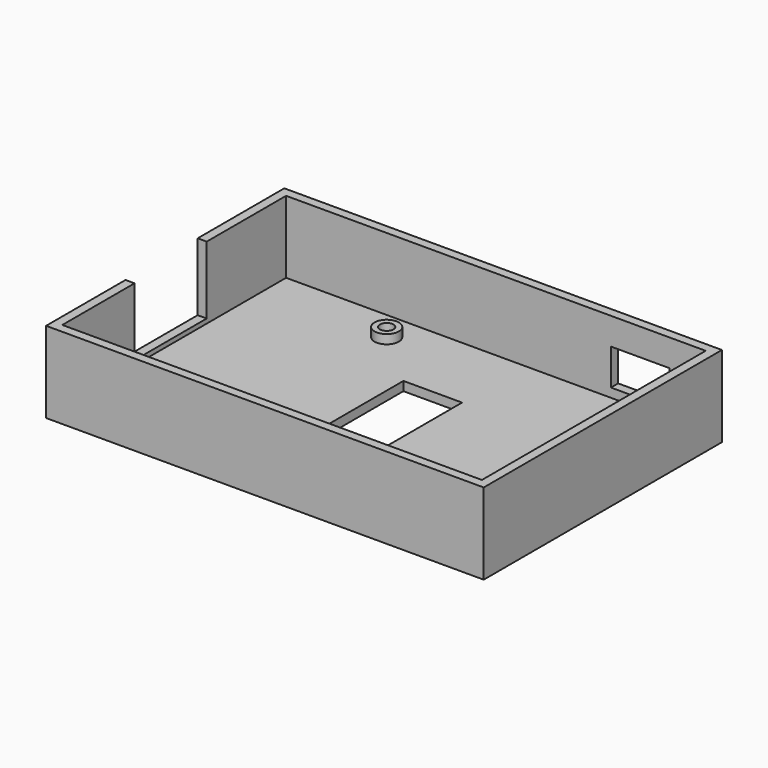
from build123d import *

# Parameters (mm, degrees)
SKETCH006_W     = 97
SKETCH006_H     = 66
SKETCH006_R     = 1.5
SKETCH006_W_2   = 13
SKETCH006_H_2   = 27
PAD004_DEPTH    = 2
SKETCH007_W     = 97
SKETCH007_H     = 66
SKETCH007_W_2   = 93
SKETCH007_H_2   = 62
PAD005_DEPTH    = 18
SKETCH008_R     = 2.7
SKETCH008_R_2   = 1.5
PAD006_DEPTH    = 4
SKETCH012_W     = 13
SKETCH012_H     = 8
POCKET001_DEPTH = 2
SKETCH026_W     = 20
SKETCH026_H     = 15
POCKET007_DEPTH = 2


with BuildPart() as part:
    # Sketch006 → Pad004 (new body)
    with BuildSketch(Plane.XY):
        with Locations((48.5, 33)):
            Rectangle(SKETCH006_W, SKETCH006_H)
        with Locations((87.5, 57.5)):
            Circle(SKETCH006_R, mode=Mode.SUBTRACT)
        with Locations((87.5, 8.5)):
            Circle(SKETCH006_R, mode=Mode.SUBTRACT)
        with Locations((29.5, 57.5)):
            Circle(SKETCH006_R, mode=Mode.SUBTRACT)
        with Locations((29.5, 8.5)):
            Circle(SKETCH006_R, mode=Mode.SUBTRACT)
        with Locations((48.5, 33)):
            Rectangle(SKETCH006_W_2, SKETCH006_H_2, mode=Mode.SUBTRACT)
    extrude(amount=PAD004_DEPTH)

    # Sketch007 → Pad005 (join)
    with BuildSketch(Plane.XY):
        with Locations((48.5, 33)):
            Rectangle(SKETCH007_W, SKETCH007_H)
        with Locations((48.5, 33)):
            Rectangle(SKETCH007_W_2, SKETCH007_H_2, mode=Mode.SUBTRACT)
    extrude(amount=PAD005_DEPTH)

    # Sketch008 → Pad006 (join)
    with BuildSketch(Plane.XY):
        with Locations((29.5, 57.5)):
            Circle(SKETCH008_R)
        with Locations((29.5, 57.5)):
            Circle(SKETCH008_R_2, mode=Mode.SUBTRACT)
        with Locations((87.5, 57.5)):
            Circle(SKETCH008_R)
        with Locations((87.5, 57.5)):
            Circle(SKETCH008_R_2, mode=Mode.SUBTRACT)
        with Locations((87.5, 8.5)):
            Circle(SKETCH008_R)
        with Locations((87.5, 8.5)):
            Circle(SKETCH008_R_2, mode=Mode.SUBTRACT)
        with Locations((29.5, 8.5)):
            Circle(SKETCH008_R)
        with Locations((29.5, 8.5)):
            Circle(SKETCH008_R_2, mode=Mode.SUBTRACT)
    extrude(amount=PAD006_DEPTH)

    # Sketch012 → Pocket001 (cut)
    with BuildSketch(Plane(origin=(74, 66, 4), x_dir=(1, 0, 0), z_dir=(0, -1, 0))):
        with Locations((6.5, 4)):
            Rectangle(SKETCH012_W, SKETCH012_H)
    extrude(amount=POCKET001_DEPTH, mode=Mode.SUBTRACT)

    # Sketch026 → Pocket007 (cut)
    with BuildSketch(Plane.YZ):
        with Locations((32, 10.5)):
            Rectangle(SKETCH026_W, SKETCH026_H)
    extrude(amount=POCKET007_DEPTH, mode=Mode.SUBTRACT)


solid = part.part
